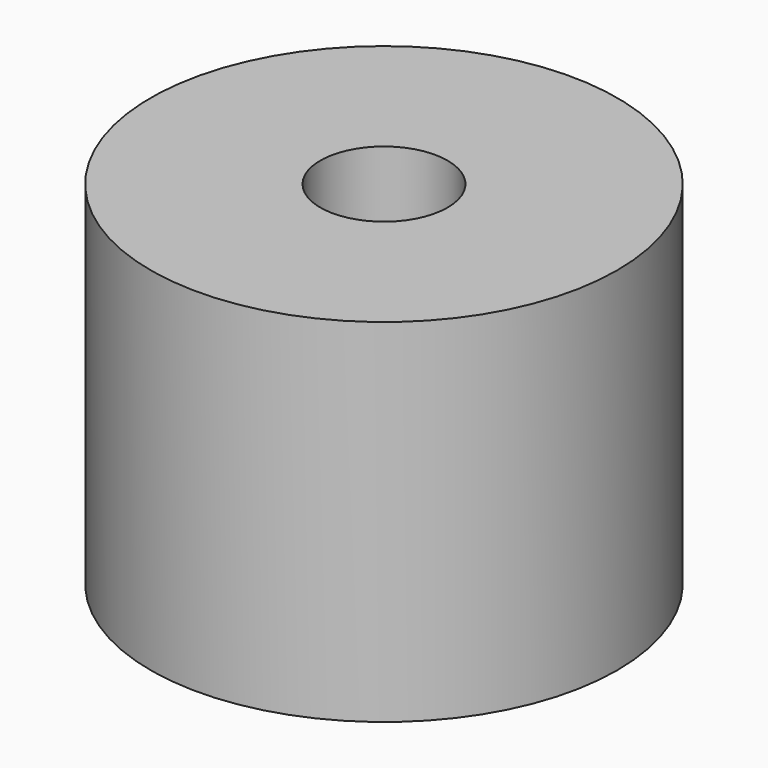
from build123d import *

# Parameters (mm, degrees)
F0_R     = 5.5
F0_R_2   = 4.75
F0_R_3   = 1.5
F1_DEPTH = 8.3


with BuildPart() as f1:
    # F0 (on Top) → F1 (new body)
    with BuildSketch(Plane.XY):
        Circle(F0_R)
        Circle(F0_R_2, mode=Mode.SUBTRACT)
        Circle(F0_R_2)
        Circle(F0_R_3, mode=Mode.SUBTRACT)
    extrude(amount=F1_DEPTH)


solid = f1.part
